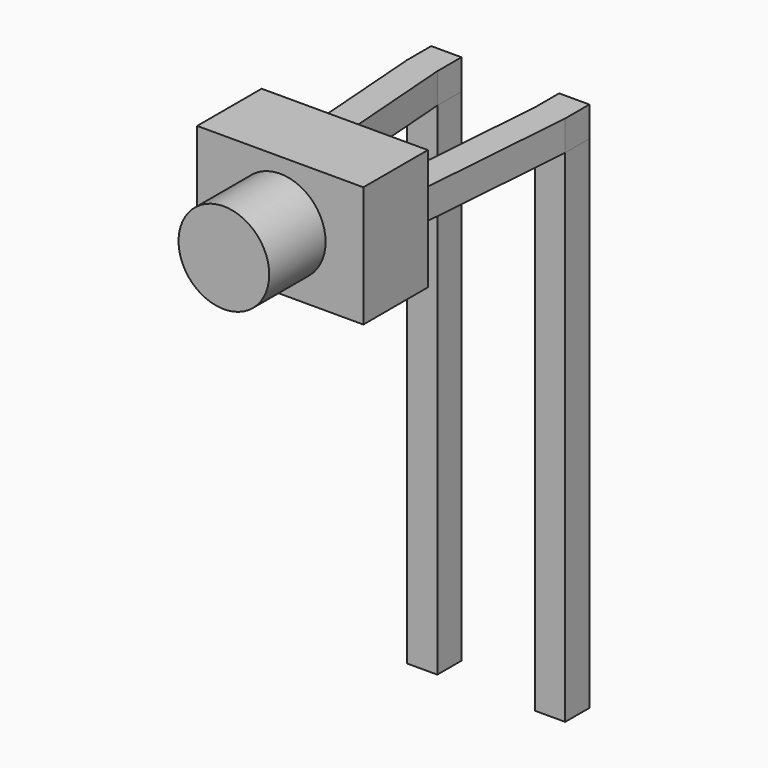
from build123d import *

# Parameters (mm, degrees)
SKETCH_W       = 0.6
SKETCH_H       = 0.6
PAD_DEPTH      = 7.95
PAD_DEPTH_BACK = 2
PAD001_DEPTH   = 0.6
SKETCH002_W    = 2.54
SKETCH002_H    = 0.6
PAD002_DEPTH   = 1
SKETCH004_W    = 3.3
SKETCH004_H    = 2.4
PAD003_DEPTH   = 1.6
SKETCH006_R    = 0.9
PAD004_DEPTH   = 1.4


with BuildPart() as pad:
    # Sketch → Pad (new body, two sides)
    with BuildSketch(Plane.XY) as pad_sk:
        Rectangle(SKETCH_W, SKETCH_H)
        with Locations((2.54, 0)):
            Rectangle(SKETCH_W, SKETCH_H)
    extrude(amount=PAD_DEPTH)
    extrude(pad_sk.sketch, amount=-PAD_DEPTH_BACK)


with BuildPart() as pad001:
    # Sketch001 → Pad001 (new body)
    with BuildSketch(Plane.XY.offset(7.95)):
        Polygon((0.3, 0.3), (-0.3, 0.3), (-0.3, -0.3), (0, -4.31), (0.6, -4.31), (0.3, -0.3), align=None)
        Polygon((2.84, 0.3), (2.24, 0.3), (2.24, -0.3), (1.94, -4.31), (2.54, -4.31), (2.84, -0.3), align=None)
    extrude(amount=PAD001_DEPTH)


with BuildPart() as pad002:
    # Sketch002 → Pad002 (new body)
    with BuildSketch(Plane.XZ.offset(4.31)):
        with Locations((1.27, 8.25)):
            Rectangle(SKETCH002_W, SKETCH002_H)
    extrude(amount=PAD002_DEPTH)


with BuildPart() as revolution001:
    # Sketch005 → Revolution001 (revolve)
    with BuildSketch(Plane.YZ.offset(1.27)):
        Polygon((-5.01, 8.25), (-5.51, 8.25), (-5.51, 8.75), align=None)
    revolve(axis=Axis((1.27, -3.977201, 8.25), (0, -1, 0)))


with BuildPart() as pad004:
    # Sketch004 → Pad003 (new body)
    with BuildSketch(Plane.XZ.offset(3.81)):
        with Locations((1.27, 8.25)):
            Rectangle(SKETCH004_W, SKETCH004_H)
    extrude(amount=PAD003_DEPTH)

    # Sketch006 → Pad004 (new body)
    with BuildSketch(Plane.XZ.offset(5.41)):
        with Locations((1.27, 8.25)):
            Circle(SKETCH006_R)
    extrude(amount=PAD004_DEPTH)


solid = Compound([pad.part, pad001.part, pad002.part, revolution001.part, pad004.part])
